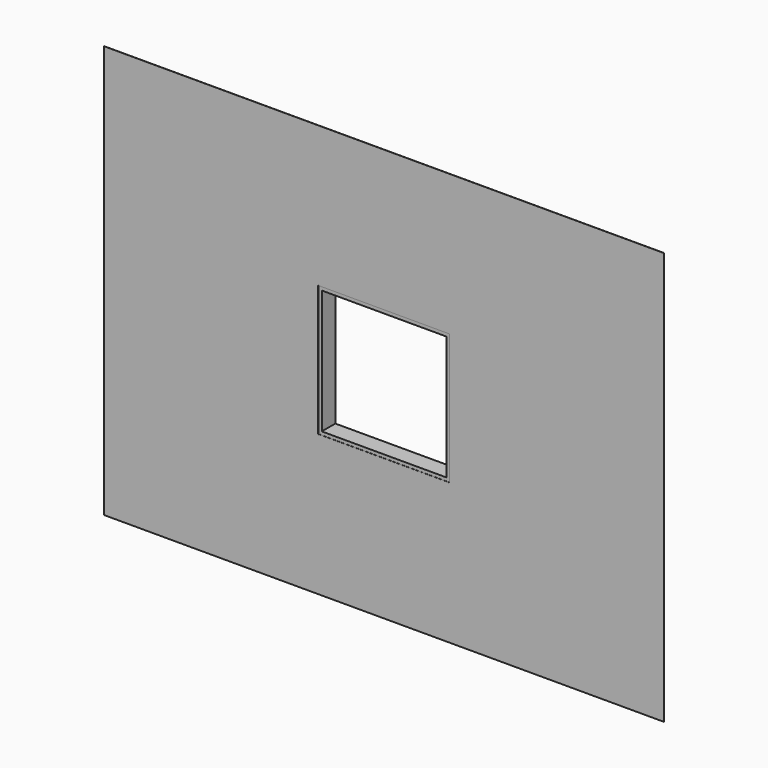
from build123d import *

# Parameters (mm, degrees)
F0_W     = 1473.2
F0_H     = 1466.85
F0_W_2   = 1397
F0_H_2   = 1390.65
F1_DEPTH = 190.5
F2_W     = 6281.9428443909
F2_H     = 4627.2683143616
F2_W_2   = 1473.2
F2_H_2   = 1466.85
F3_DEPTH = 1.5875


with BuildPart() as f1:
    # F0 (on Front) → F1 (new body)
    with BuildSketch(Plane.XZ):
        Rectangle(F0_W, F0_H)
        Rectangle(F0_W_2, F0_H_2, mode=Mode.SUBTRACT)
    extrude(amount=F1_DEPTH)


with BuildPart() as f3:
    # F2 (on face) → F3 (new body)
    with BuildSketch(Plane.XZ.offset(190.5)):
        Rectangle(F2_W, F2_H)
        Rectangle(F2_W_2, F2_H_2, mode=Mode.SUBTRACT)
    extrude(amount=F3_DEPTH)


solid = Compound([f1.part, f3.part])
